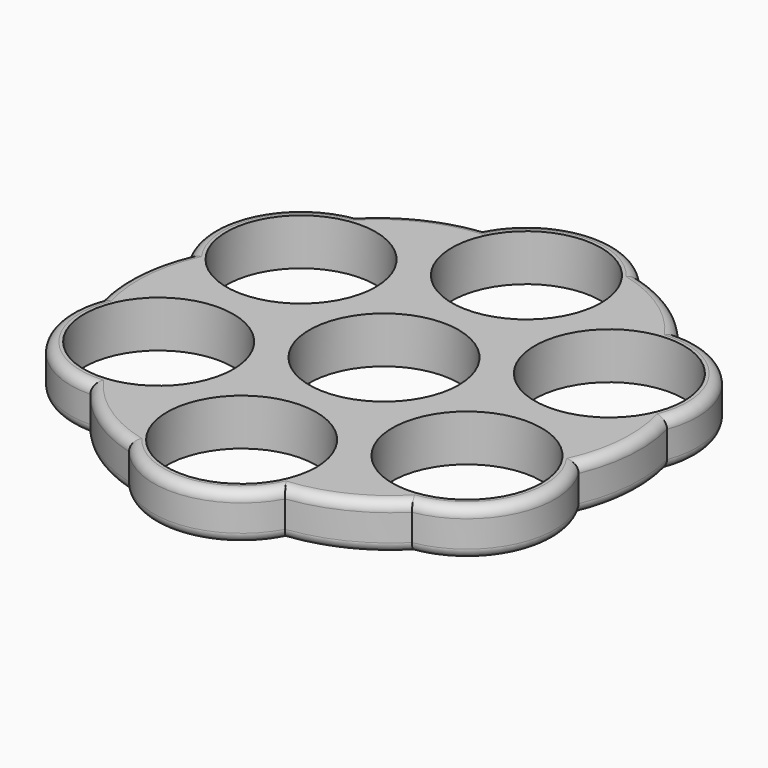
from build123d import *

# Parameters (mm, degrees)
F0_R     = 11.2
F1_DEPTH = 7
F2_R     = 1.5
F3_R     = 1.5


with BuildPart() as f1:
    # F0 (on Top) → F1 (new body)
    with BuildSketch(Plane.XY):
        with BuildLine():
            ThreePointArc((22.827265, 26.553771), (17.215328, 31.868378), (10.194337, 35.100182))
            ThreePointArc((10.194337, 35.100182), (-1.239704, 39.856404), (-11.582608, 33.045877))
            ThreePointArc((-11.582608, 33.045877), (-18.991161, 30.8431), (-25.300481, 26.378645))
            ThreePointArc((-25.300481, 26.378645), (-35.136511, 18.854587), (-34.409873, 6.492106))
            ThreePointArc((-34.409873, 6.492106), (-36.206488, -1.025278), (-35.494817, -8.721536))
            ThreePointArc((-35.494817, -8.721536), (-33.896806, -21.001817), (-22.827265, -26.553771))
            ThreePointArc((-22.827265, -26.553771), (-17.215328, -31.868378), (-10.194337, -35.100182))
            ThreePointArc((-10.194337, -35.100182), (1.239704, -39.856404), (11.582608, -33.045877))
            ThreePointArc((11.582608, -33.045877), (18.991161, -30.8431), (25.300481, -26.378645))
            ThreePointArc((25.300481, -26.378645), (35.136511, -18.854587), (34.409873, -6.492106))
            ThreePointArc((34.409873, -6.492106), (36.206488, 1.025278), (35.494817, 8.721536))
            ThreePointArc((35.494817, 8.721536), (33.896806, 21.001817), (22.827265, 26.553771))
        make_face()
        with Locations((-23.13565, -13.357374)):
            Circle(F0_R, mode=Mode.SUBTRACT)
        with Locations((0, -26.714748)):
            Circle(F0_R, mode=Mode.SUBTRACT)
        with Locations((23.13565, -13.357374)):
            Circle(F0_R, mode=Mode.SUBTRACT)
        with Locations((-23.13565, 13.357374)):
            Circle(F0_R, mode=Mode.SUBTRACT)
        Circle(F0_R, mode=Mode.SUBTRACT)
        with Locations((23.13565, 13.357374)):
            Circle(F0_R, mode=Mode.SUBTRACT)
        with Locations((0, 26.714748)):
            Circle(F0_R, mode=Mode.SUBTRACT)
    extrude(amount=F1_DEPTH)

    # F2
    f2_edges = [f1.edges().sort_by_distance(p)[0] for p in [
        (-17.215328, -31.868378, 0),
        (1.239704, -39.856404, 0),
        (18.991161, -30.8431, 0),
        (35.136511, -18.854587, 0),
        (36.206488, 1.025278, 0),
        (33.896806, 21.001817, 0),
        (17.215328, 31.868378, 0),
        (-1.239704, 39.856404, 0),
        (-18.991161, 30.8431, 0),
        (-35.136511, 18.854587, 0),
        (-36.206488, -1.025278, 0),
        (-33.896806, -21.001817, 0),
    ]]
    fillet(f2_edges, radius=F2_R)

    # F3
    f3_edges = [f1.edges().sort_by_distance(p)[0] for p in [
        (-18.991161, 30.8431, 7),
        (-1.239704, 39.856404, 7),
        (17.215328, 31.868378, 7),
        (33.896806, 21.001817, 7),
        (36.206488, 1.025278, 7),
        (35.136511, -18.854587, 7),
        (18.991161, -30.8431, 7),
        (1.239704, -39.856404, 7),
        (-17.215328, -31.868378, 7),
        (-33.896806, -21.001817, 7),
        (-36.206488, -1.025278, 7),
        (-35.136511, 18.854587, 7),
    ]]
    fillet(f3_edges, radius=F3_R)


solid = f1.part
